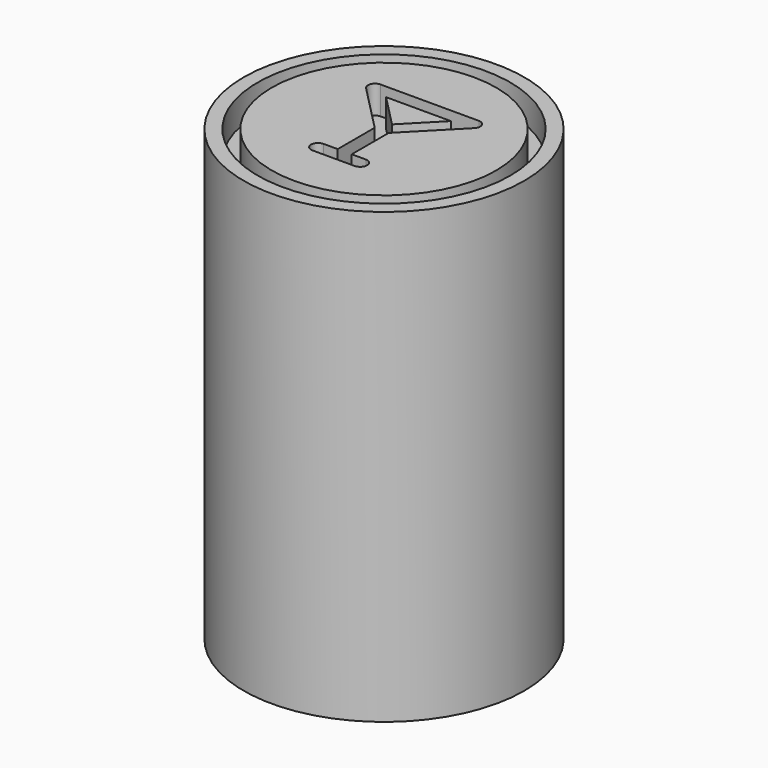
from build123d import *

# Parameters (mm, degrees)
F0_R     = 10
F1_DEPTH = 30
F2_R     = 10
F2_R_2   = 9
F2_R_3   = 8
F3_DEPTH = 2


with BuildPart() as f1:
    # F0 (on Top) → F1 (new body)
    with BuildSketch(Plane.XY):
        Circle(F0_R)
    extrude(amount=F1_DEPTH)

    # F2 (on face) → F3 (join)
    with BuildSketch(Plane.XY.offset(30)):
        Circle(F2_R)
        Circle(F2_R_2, mode=Mode.SUBTRACT)
        Circle(F2_R_3)
        with BuildLine():
            Line((-3.5, 4.0707142143), (3.5, 4.0707142143))
            ThreePointArc((3.5, 4.0707142143), (3.9609772229, 3.7643633816), (3.8570714214, 3.2207142143))
            Line((3.8570714214, 3.2207142143), (0.5, -0.2041836837))
            Line((0.5, -0.2041836837), (0.5, -3.5))
            Line((0.5, -3.5), (1.5, -3.5))
            ThreePointArc((1.5, -3.5), (2, -4), (1.5, -4.5))
            Line((1.5, -4.5), (0, -4.5))
            Line((0, -4.5), (-1.5, -4.5))
            ThreePointArc((-1.5, -4.5), (-2, -4), (-1.5, -3.5))
            Line((-1.5, -3.5), (-0.5, -3.5))
            Line((-0.5, -3.5), (-0.5, -0.2041836837))
            Line((-0.5, -0.2041836837), (-3.8570714214, 3.2207142143))
            ThreePointArc((-3.8570714214, 3.2207142143), (-3.9609772229, 3.7643633816), (-3.5, 4.0707142143))
        make_face(mode=Mode.SUBTRACT)
        Polygon((0, 0.7142857143), (2.3097619286, 3.0707142143), (-2.3097619286, 3.0707142143), align=None)
    extrude(amount=F3_DEPTH)


solid = f1.part
